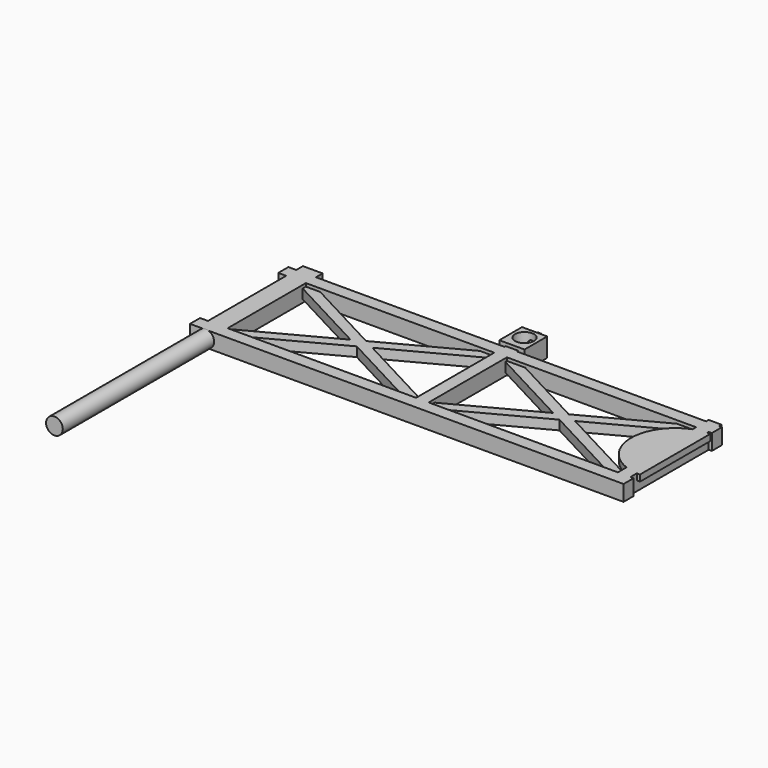
from build123d import *

# Parameters (mm, degrees)
SKETCH003_W            = 1.25
SKETCH003_H            = 8.33
PAD003_DEPTH           = 1
BOX019_W               = 27.5
BOX019_H               = 0.8
BOX019_DEPTH           = 1
LINEARPATTERN009_COUNT = 2
LINEARPATTERN009_PITCH = 7
BOX022_W               = 0.8
BOX022_H               = 8
BOX022_DEPTH           = 1
BOX021_W               = 0.8
BOX021_H               = 8
BOX021_DEPTH           = 1
BOX020_W               = 0.65
BOX020_H               = 14
BOX020_DEPTH           = 0.6
LINEARPATTERN011_COUNT = 2
LINEARPATTERN011_PITCH = 12.5
BOX023_W               = 0.65
BOX023_H               = 14
BOX023_DEPTH           = 0.6
LINEARPATTERN010_COUNT = 2
LINEARPATTERN010_PITCH = 13
CYLINDER010_R          = 0.53
CYLINDER010_DEPTH      = 12
CYLINDER009_R          = 2.8
CYLINDER009_DEPTH      = 0.4
BOX025_W               = 1.6
BOX025_H               = 1.8
BOX025_DEPTH           = 1.2
CYLINDER011_R          = 0.6
CYLINDER011_DEPTH      = 2
BOX024_W               = 4
BOX024_H               = 6
BOX024_DEPTH           = 1


with BuildPart() as part:
    # Sketch003 → Pad003 (new body)
    with BuildSketch(Plane.XY):
        with Locations((0.625, 4.165)):
            Rectangle(SKETCH003_W, SKETCH003_H)
    extrude(amount=PAD003_DEPTH)

    # Box019 → Box019 (join)
    with BuildSketch(Plane(origin=(-0.5, 0, 0), x_dir=(1, 0, 0), z_dir=(0, 0, 1))):
        with Locations((13.75, 0.4)):
            Rectangle(BOX019_W, BOX019_H)
    box019 = extrude(amount=BOX019_DEPTH)

    # LinearPattern009: Box019 ×2
    with Locations(*[(0, i * LINEARPATTERN009_PITCH, 0) for i in range(1, LINEARPATTERN009_COUNT)]):
        add(box019)

    # Box022 → Box022 (join)
    with BuildSketch(Plane(origin=(13.2, 0, 0), x_dir=(1, 0, 0), z_dir=(0, 0, 1))):
        with Locations((0.4, 4)):
            Rectangle(BOX022_W, BOX022_H)
    extrude(amount=BOX022_DEPTH)

    # Box021 → Box021 (join)
    with BuildSketch(Plane(origin=(26, 0, 0), x_dir=(1, 0, 0), z_dir=(0, 0, 1))):
        with Locations((0.4, 4)):
            Rectangle(BOX021_W, BOX021_H)
    extrude(amount=BOX021_DEPTH)

    # Box020 → Box020 (join)
    with BuildSketch(Plane(origin=(1, 1, 0.2), x_dir=(0.469472, -0.882948, 0), z_dir=(0, 0, 1))):
        with Locations((0.325, 7)):
            Rectangle(BOX020_W, BOX020_H)
    box020 = extrude(amount=BOX020_DEPTH)

    # LinearPattern011: Box020 ×2
    with Locations(*[(i * LINEARPATTERN011_PITCH, 0, 0) for i in range(1, LINEARPATTERN011_COUNT)]):
        add(box020)

    # Box023 → Box023 (join)
    with BuildSketch(Plane(origin=(13, 0.5, 0.2), x_dir=(0.469472, 0.882948, 0), z_dir=(0, 0, 1))):
        with Locations((0.325, 7)):
            Rectangle(BOX023_W, BOX023_H)
    box023 = extrude(amount=BOX023_DEPTH)

    # LinearPattern010: Box023 ×2
    with Locations(*[(i * LINEARPATTERN010_PITCH, 0, 0) for i in range(1, LINEARPATTERN010_COUNT)]):
        add(box023)

    # Cylinder010 → Cylinder010 (join)
    with BuildSketch(Plane(origin=(0.5, 0, 0.5), x_dir=(1, 0, 0), z_dir=(0, -1, 0))):
        Circle(CYLINDER010_R)
    extrude(amount=CYLINDER010_DEPTH)

    # Cylinder009 → Cylinder009 (join)
    with BuildSketch(Plane(origin=(27, 4.1, 0.6), x_dir=(1, 0, 0), z_dir=(0, 0, 1))):
        Circle(CYLINDER009_R)
    extrude(amount=CYLINDER009_DEPTH)

    # Box025 → Box025 (join)
    with BuildSketch(Plane(origin=(12.8, 7.9, 0), x_dir=(1, 0, 0), z_dir=(0, 0, 1))):
        with Locations((0.8, 0.9)):
            Rectangle(BOX025_W, BOX025_H)
    extrude(amount=BOX025_DEPTH)

    # Cylinder011 → Cylinder011 (cut)
    with BuildSketch(Plane(origin=(13.6, 8.9, 0.5), x_dir=(1, 0, 0), z_dir=(0, 0, 1))):
        Circle(CYLINDER011_R)
    extrude(amount=CYLINDER011_DEPTH, mode=Mode.SUBTRACT)

    # Box024 → Box024 (cut)
    with BuildSketch(Plane(origin=(27, 1, 0), x_dir=(1, 0, 0), z_dir=(0, 0, 1))):
        with Locations((2, 3)):
            Rectangle(BOX024_W, BOX024_H)
    extrude(amount=BOX024_DEPTH, mode=Mode.SUBTRACT)

    # Sphere001 → Sphere001 (revolve)
    with BuildSketch(Plane(origin=(13.55, 9.9, 0.5), x_dir=(1, 0, 0), z_dir=(0, -1, 0))):
        with BuildLine():
            ThreePointArc((0, -0.5), (0.5, 0), (0, 0.5))
            Line((0, 0.5), (0, -0.5))
        make_face()
    revolve(axis=Axis((13.55, 9.9, 0.5), (0, 0, 1)))


with BuildPart() as part_1:
    # Body003 placement: moved
    add(part.part.moved(Location((0, -24, 0))))


solid = part_1.part
